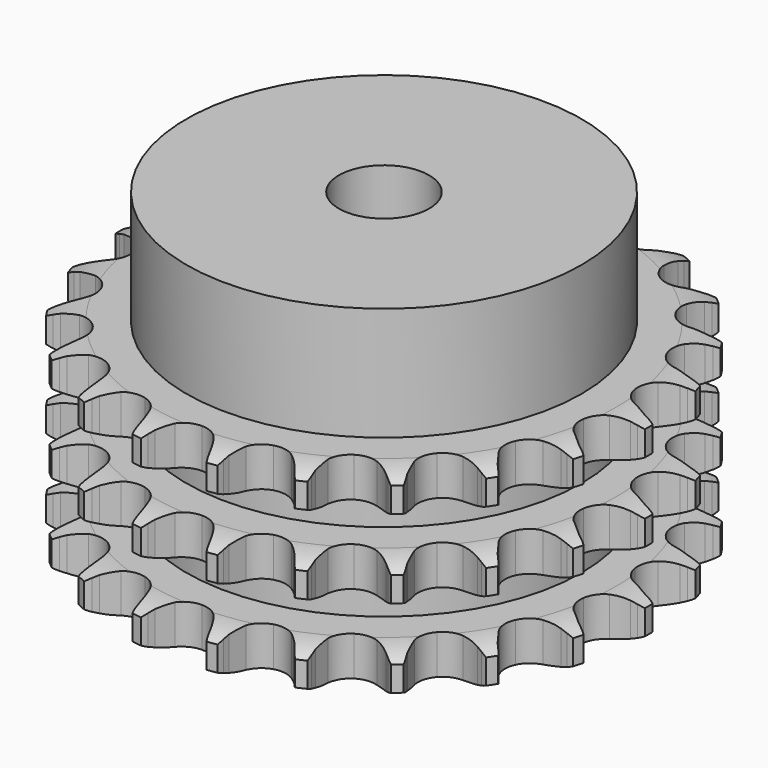
from build123d import *

# Parameters (mm, degrees)
PAD_DEPTH         = 34.9
SKETCH001_R       = 35
PAD001_DEPTH      = 55
SKETCH002_R       = 8
POCKET_DEPTH      = 0.001
POCKET_DEPTH_BACK = 55.001


with BuildPart() as part:
    # Sprocket → Pad (new body)
    with BuildSketch(Plane.XY):
        with BuildLine():
            ThreePointArc((-6.888681, 47.911827), (-5.985415, 46.823172), (-5.319648, 45.575049))
            Line((-5.319648, 45.575049), (-4.90787, 44.569666))
            ThreePointArc((-4.90787, 44.569666), (-4.247592, 43.224033), (-3.412379, 41.9794))
            ThreePointArc((-3.412379, 41.9794), (-1.900521, 40.746159), (0, 40.305006))
            ThreePointArc((0, 40.305006), (1.900521, 40.746159), (3.412379, 41.9794))
            ThreePointArc((3.412379, 41.9794), (4.247592, 43.224033), (4.90787, 44.569666))
            Line((4.90787, 44.569666), (5.319648, 45.575049))
            ThreePointArc((5.319648, 45.575049), (5.985415, 46.823172), (6.888681, 47.911827))
            ThreePointArc((6.888681, 47.911827), (7.448649, 46.612791), (7.73581, 45.227657))
            Line((7.73581, 45.227657), (7.847659, 44.146988))
            ThreePointArc((7.847659, 44.146988), (8.102083, 42.669841), (8.55281, 41.240317))
            ThreePointArc((8.55281, 41.240317), (9.655983, 39.631092), (11.355232, 38.67237))
            ThreePointArc((11.355232, 38.67237), (13.303056, 38.560214), (15.101117, 39.317561))
            Line((15.101117, 39.317561), (17.265792, 41.381574))
            ThreePointArc((17.265792, 41.381574), (17.594598, 41.814185), (17.94414, 42.230221))
            ThreePointArc((17.94414, 42.230221), (18.934576, 43.240219), (20.107962, 44.030296))
            ThreePointArc((20.107962, 44.030296), (20.279267, 42.626119), (20.164559, 41.21619))
            Line((20.164559, 41.21619), (19.967418, 40.147783))
            ThreePointArc((19.967418, 40.147783), (19.795375, 38.658792), (19.825101, 37.160189))
            ThreePointArc((19.825101, 37.160189), (20.430216, 35.305349), (21.790531, 33.906729))
            ThreePointArc((21.790531, 33.906729), (23.627857, 33.250351), (25.566453, 33.470447))
            Line((25.566453, 33.470447), (28.224943, 34.840994))
            ThreePointArc((28.224943, 34.840994), (28.662311, 35.163446), (29.114905, 35.464152))
            ThreePointArc((29.114905, 35.464152), (30.34977, 36.1542), (31.698216, 36.581692))
            ThreePointArc((31.698216, 36.581692), (31.466979, 35.186132), (30.959695, 33.865632))
            Line((30.959695, 33.865632), (30.469535, 32.896044))
            ThreePointArc((30.469535, 32.896044), (29.884964, 31.515838), (29.49128, 30.069564))
            ThreePointArc((29.49128, 30.069564), (29.549315, 28.119377), (30.460491, 26.394166))
            ThreePointArc((30.460491, 26.394166), (32.038469, 25.246741), (33.960546, 24.911757))
            Line((33.960546, 24.911757), (36.897477, 25.477804))
            ThreePointArc((36.897477, 25.477804), (37.407973, 25.663973), (37.926952, 25.824988))
            ThreePointArc((37.926952, 25.824988), (39.306206, 26.139182), (40.720469, 26.169457))
            ThreePointArc((40.720469, 26.169457), (40.105425, 24.895574), (39.246661, 23.771482))
            Line((39.246661, 23.771482), (38.503191, 22.979264))
            ThreePointArc((38.503191, 22.979264), (37.55345, 21.819658), (36.768252, 20.542882))
            ThreePointArc((36.768252, 20.542882), (36.274505, 18.655341), (36.662723, 16.743305))
            ThreePointArc((36.662723, 16.743305), (37.853515, 15.197791), (39.603358, 14.334864))
            Line((39.603358, 14.334864), (42.580797, 14.050553))
            ThreePointArc((42.580797, 14.050553), (43.123064, 14.085358), (43.666384, 14.093637))
            ThreePointArc((43.666384, 14.093637), (45.078287, 14.006524), (46.443792, 13.637128))
            ThreePointArc((46.443792, 13.637128), (45.494767, 12.588124), (44.354096, 11.751508))
            Line((44.354096, 11.751508), (43.417548, 11.200839))
            ThreePointArc((43.417548, 11.200839), (42.17958, 10.355779), (41.066478, 9.351937))
            ThreePointArc((41.066478, 9.351937), (40.060949, 7.67996), (39.894759, 5.736))
            ThreePointArc((39.894759, 5.736), (40.601894, 3.917606), (42.037742, 2.596646))
            Line((42.037742, 2.596646), (44.814474, 1.48501))
            ThreePointArc((44.814474, 1.48501), (45.344581, 1.365631), (45.868225, 1.220504))
            ThreePointArc((45.868225, 1.220504), (47.198393, 0.73914), (48.404515, 0))
            ThreePointArc((48.404515, 0), (47.198393, -0.73914), (45.868225, -1.220504))
            Line((45.868225, -1.220504), (44.814474, -1.48501))
            ThreePointArc((44.814474, -1.48501), (43.38857, -1.947064), (42.037742, -2.596646))
            ThreePointArc((42.037742, -2.596646), (40.601894, -3.917606), (39.894759, -5.736))
            ThreePointArc((39.894759, -5.736), (40.060949, -7.67996), (41.066478, -9.351937))
            Line((41.066478, -9.351937), (43.417548, -11.200839))
            ThreePointArc((43.417548, -11.200839), (43.89255, -11.464731), (44.354096, -11.751508))
            ThreePointArc((44.354096, -11.751508), (45.494767, -12.588124), (46.443792, -13.637128))
            ThreePointArc((46.443792, -13.637128), (45.078287, -14.006524), (43.666384, -14.093637))
            Line((43.666384, -14.093637), (42.580797, -14.050553))
            ThreePointArc((42.580797, -14.050553), (41.082477, -14.092167), (39.603358, -14.334864))
            ThreePointArc((39.603358, -14.334864), (37.853515, -15.197791), (36.662723, -16.743305))
            ThreePointArc((36.662723, -16.743305), (36.274505, -18.655341), (36.768252, -20.542882))
            Line((36.768252, -20.542882), (38.503191, -22.979264))
            ThreePointArc((38.503191, -22.979264), (38.884605, -23.366289), (39.246661, -23.771482))
            ThreePointArc((39.246661, -23.771482), (40.105425, -24.895574), (40.720469, -26.169457))
            ThreePointArc((40.720469, -26.169457), (39.306206, -26.139182), (37.926952, -25.824988))
            Line((37.926952, -25.824988), (36.897477, -25.477804))
            ThreePointArc((36.897477, -25.477804), (35.448126, -25.095606), (33.960546, -24.911757))
            ThreePointArc((33.960546, -24.911757), (32.038469, -25.246741), (30.460491, -26.394166))
            ThreePointArc((30.460491, -26.394166), (29.549315, -28.119377), (29.49128, -30.069564))
            Line((29.49128, -30.069564), (30.469535, -32.896044))
            ThreePointArc((30.469535, -32.896044), (30.726461, -33.37485), (30.959695, -33.865632))
            ThreePointArc((30.959695, -33.865632), (31.466979, -35.186132), (31.698216, -36.581692))
            ThreePointArc((31.698216, -36.581692), (30.34977, -36.1542), (29.114905, -35.464152))
            Line((29.114905, -35.464152), (28.224943, -34.840994))
            ThreePointArc((28.224943, -34.840994), (26.941978, -34.065949), (25.566453, -33.470447))
            ThreePointArc((25.566453, -33.470447), (23.627857, -33.250351), (21.790531, -33.906729))
            ThreePointArc((21.790531, -33.906729), (20.430216, -35.305349), (19.825101, -37.160189))
            Line((19.825101, -37.160189), (19.967418, -40.147783))
            ThreePointArc((19.967418, -40.147783), (20.079041, -40.679578), (20.164559, -41.21619))
            ThreePointArc((20.164559, -41.21619), (20.279267, -42.626119), (20.107962, -44.030296))
            ThreePointArc((20.107962, -44.030296), (18.934576, -43.240219), (17.94414, -42.230221))
            Line((17.94414, -42.230221), (17.265792, -41.381574))
            ThreePointArc((17.265792, -41.381574), (16.253152, -40.276471), (15.101117, -39.317561))
            ThreePointArc((15.101117, -39.317561), (13.303056, -38.560214), (11.355232, -38.67237))
            ThreePointArc((11.355232, -38.67237), (9.655983, -39.631092), (8.55281, -41.240317))
            Line((8.55281, -41.240317), (7.847659, -44.146988))
            ThreePointArc((7.847659, -44.146988), (7.804938, -44.688689), (7.73581, -45.227657))
            ThreePointArc((7.73581, -45.227657), (7.448649, -46.612791), (6.888681, -47.911827))
            ThreePointArc((6.888681, -47.911827), (5.985415, -46.823172), (5.319648, -45.575049))
            Line((5.319648, -45.575049), (4.90787, -44.569666))
            ThreePointArc((4.90787, -44.569666), (4.247592, -43.224033), (3.412379, -41.9794))
            ThreePointArc((3.412379, -41.9794), (1.900521, -40.746159), (0, -40.305006))
            ThreePointArc((0, -40.305006), (-1.900521, -40.746159), (-3.412379, -41.9794))
            Line((-3.412379, -41.9794), (-4.90787, -44.569666))
            ThreePointArc((-4.90787, -44.569666), (-5.101476, -45.077388), (-5.319648, -45.575049))
            ThreePointArc((-5.319648, -45.575049), (-5.985415, -46.823172), (-6.888681, -47.911827))
            ThreePointArc((-6.888681, -47.911827), (-7.448649, -46.612791), (-7.73581, -45.227657))
            Line((-7.73581, -45.227657), (-7.847659, -44.146988))
            ThreePointArc((-7.847659, -44.146988), (-8.102083, -42.669841), (-8.55281, -41.240317))
            ThreePointArc((-8.55281, -41.240317), (-9.655983, -39.631092), (-11.355232, -38.67237))
            ThreePointArc((-11.355232, -38.67237), (-13.303056, -38.560214), (-15.101117, -39.317561))
            Line((-15.101117, -39.317561), (-17.265792, -41.381574))
            ThreePointArc((-17.265792, -41.381574), (-17.594598, -41.814185), (-17.94414, -42.230221))
            ThreePointArc((-17.94414, -42.230221), (-18.934576, -43.240219), (-20.107962, -44.030296))
            ThreePointArc((-20.107962, -44.030296), (-20.279267, -42.626119), (-20.164559, -41.21619))
            Line((-20.164559, -41.21619), (-19.967418, -40.147783))
            ThreePointArc((-19.967418, -40.147783), (-19.795375, -38.658792), (-19.825101, -37.160189))
            ThreePointArc((-19.825101, -37.160189), (-20.430216, -35.305349), (-21.790531, -33.906729))
            ThreePointArc((-21.790531, -33.906729), (-23.627857, -33.250351), (-25.566453, -33.470447))
            Line((-25.566453, -33.470447), (-28.224943, -34.840994))
            ThreePointArc((-28.224943, -34.840994), (-28.662311, -35.163446), (-29.114905, -35.464152))
            ThreePointArc((-29.114905, -35.464152), (-30.34977, -36.1542), (-31.698216, -36.581692))
            ThreePointArc((-31.698216, -36.581692), (-31.466979, -35.186132), (-30.959695, -33.865632))
            Line((-30.959695, -33.865632), (-30.469535, -32.896044))
            ThreePointArc((-30.469535, -32.896044), (-29.884964, -31.515838), (-29.49128, -30.069564))
            ThreePointArc((-29.49128, -30.069564), (-29.549315, -28.119377), (-30.460491, -26.394166))
            ThreePointArc((-30.460491, -26.394166), (-32.038469, -25.246741), (-33.960546, -24.911757))
            Line((-33.960546, -24.911757), (-36.897477, -25.477804))
            ThreePointArc((-36.897477, -25.477804), (-37.407973, -25.663973), (-37.926952, -25.824988))
            ThreePointArc((-37.926952, -25.824988), (-39.306206, -26.139182), (-40.720469, -26.169457))
            ThreePointArc((-40.720469, -26.169457), (-40.105425, -24.895574), (-39.246661, -23.771482))
            Line((-39.246661, -23.771482), (-38.503191, -22.979264))
            ThreePointArc((-38.503191, -22.979264), (-37.55345, -21.819658), (-36.768252, -20.542882))
            ThreePointArc((-36.768252, -20.542882), (-36.274505, -18.655341), (-36.662723, -16.743305))
            ThreePointArc((-36.662723, -16.743305), (-37.853515, -15.197791), (-39.603358, -14.334864))
            Line((-39.603358, -14.334864), (-42.580797, -14.050553))
            ThreePointArc((-42.580797, -14.050553), (-43.123064, -14.085358), (-43.666384, -14.093637))
            ThreePointArc((-43.666384, -14.093637), (-45.078287, -14.006524), (-46.443792, -13.637128))
            ThreePointArc((-46.443792, -13.637128), (-45.494767, -12.588124), (-44.354096, -11.751508))
            Line((-44.354096, -11.751508), (-43.417548, -11.200839))
            ThreePointArc((-43.417548, -11.200839), (-42.17958, -10.355779), (-41.066478, -9.351937))
            ThreePointArc((-41.066478, -9.351937), (-40.060949, -7.67996), (-39.894759, -5.736))
            ThreePointArc((-39.894759, -5.736), (-40.601894, -3.917606), (-42.037742, -2.596646))
            Line((-42.037742, -2.596646), (-44.814474, -1.48501))
            ThreePointArc((-44.814474, -1.48501), (-45.344581, -1.365631), (-45.868225, -1.220504))
            ThreePointArc((-45.868225, -1.220504), (-47.198393, -0.73914), (-48.404515, 0))
            ThreePointArc((-48.404515, 0), (-47.198393, 0.73914), (-45.868225, 1.220504))
            Line((-45.868225, 1.220504), (-44.814474, 1.48501))
            ThreePointArc((-44.814474, 1.48501), (-43.38857, 1.947064), (-42.037742, 2.596646))
            ThreePointArc((-42.037742, 2.596646), (-40.601894, 3.917606), (-39.894759, 5.736))
            ThreePointArc((-39.894759, 5.736), (-40.060949, 7.67996), (-41.066478, 9.351937))
            Line((-41.066478, 9.351937), (-43.417548, 11.200839))
            ThreePointArc((-43.417548, 11.200839), (-43.89255, 11.464731), (-44.354096, 11.751508))
            ThreePointArc((-44.354096, 11.751508), (-45.494767, 12.588124), (-46.443792, 13.637128))
            ThreePointArc((-46.443792, 13.637128), (-45.078287, 14.006524), (-43.666384, 14.093637))
            Line((-43.666384, 14.093637), (-42.580797, 14.050553))
            ThreePointArc((-42.580797, 14.050553), (-41.082477, 14.092167), (-39.603358, 14.334864))
            ThreePointArc((-39.603358, 14.334864), (-37.853515, 15.197791), (-36.662723, 16.743305))
            ThreePointArc((-36.662723, 16.743305), (-36.274505, 18.655341), (-36.768252, 20.542882))
            Line((-36.768252, 20.542882), (-38.503191, 22.979264))
            ThreePointArc((-38.503191, 22.979264), (-38.884605, 23.366289), (-39.246661, 23.771482))
            ThreePointArc((-39.246661, 23.771482), (-40.105425, 24.895574), (-40.720469, 26.169457))
            ThreePointArc((-40.720469, 26.169457), (-39.306206, 26.139182), (-37.926952, 25.824988))
            Line((-37.926952, 25.824988), (-36.897477, 25.477804))
            ThreePointArc((-36.897477, 25.477804), (-35.448126, 25.095606), (-33.960546, 24.911757))
            ThreePointArc((-33.960546, 24.911757), (-32.038469, 25.246741), (-30.460491, 26.394166))
            ThreePointArc((-30.460491, 26.394166), (-29.549315, 28.119377), (-29.49128, 30.069564))
            Line((-29.49128, 30.069564), (-30.469535, 32.896044))
            ThreePointArc((-30.469535, 32.896044), (-30.726461, 33.37485), (-30.959695, 33.865632))
            ThreePointArc((-30.959695, 33.865632), (-31.466979, 35.186132), (-31.698216, 36.581692))
            ThreePointArc((-31.698216, 36.581692), (-30.34977, 36.1542), (-29.114905, 35.464152))
            Line((-29.114905, 35.464152), (-28.224943, 34.840994))
            ThreePointArc((-28.224943, 34.840994), (-26.941978, 34.065949), (-25.566453, 33.470447))
            ThreePointArc((-25.566453, 33.470447), (-23.627857, 33.250351), (-21.790531, 33.906729))
            ThreePointArc((-21.790531, 33.906729), (-20.430216, 35.305349), (-19.825101, 37.160189))
            Line((-19.825101, 37.160189), (-19.967418, 40.147783))
            ThreePointArc((-19.967418, 40.147783), (-20.079041, 40.679578), (-20.164559, 41.21619))
            ThreePointArc((-20.164559, 41.21619), (-20.279267, 42.626119), (-20.107962, 44.030296))
            ThreePointArc((-20.107962, 44.030296), (-18.934576, 43.240219), (-17.94414, 42.230221))
            Line((-17.94414, 42.230221), (-17.265792, 41.381574))
            ThreePointArc((-17.265792, 41.381574), (-16.253152, 40.276471), (-15.101117, 39.317561))
            ThreePointArc((-15.101117, 39.317561), (-13.303056, 38.560214), (-11.355232, 38.67237))
            ThreePointArc((-11.355232, 38.67237), (-9.655983, 39.631092), (-8.55281, 41.240317))
            Line((-8.55281, 41.240317), (-7.847659, 44.146988))
            ThreePointArc((-7.847659, 44.146988), (-7.804938, 44.688689), (-7.73581, 45.227657))
            ThreePointArc((-7.73581, 45.227657), (-7.448649, 46.612791), (-6.888681, 47.911827))
        make_face()
    extrude(amount=PAD_DEPTH)

    # Sketch → Groove (revolve, cut)
    with BuildSketch(Plane.XZ):
        with BuildLine():
            ThreePointArc((41.233431, 0), (44.14032, 0.329167), (46.9, 1.3))
            Line((46.9, 1.3), (46.9, 5.7))
            ThreePointArc((46.9, 5.7), (44.14032, 6.670833), (41.233431, 7))
            Line((35, 7), (41.233431, 7))
            Line((35, 7), (35, 13.95))
            Line((35, 13.95), (41.233431, 13.95))
            ThreePointArc((41.233431, 13.95), (44.14032, 14.279167), (46.9, 15.25))
            Line((46.9, 19.65), (46.9, 15.25))
            ThreePointArc((46.9, 19.65), (44.14032, 20.620833), (41.233431, 20.95))
            Line((35, 20.95), (41.233431, 20.95))
            Line((35, 27.9), (35, 20.95))
            Line((41.233431, 27.9), (35, 27.9))
            ThreePointArc((41.233431, 27.9), (44.14032, 28.229167), (46.9, 29.2))
            Line((46.9, 29.2), (46.9, 33.6))
            ThreePointArc((46.9, 33.6), (44.14032, 34.570833), (41.233431, 34.9))
            Line((41.233431, 34.9), (56.9, 34.9))
            Line((56.9, 34.9), (56.9, 0))
            Line((41.233431, 0), (56.9, 0))
        make_face()
    revolve(axis=Axis((0, 0, 0), (0, 0, 1)), mode=Mode.SUBTRACT)

    # Sketch001 → Pad001 (join)
    with BuildSketch(Plane.XY):
        Circle(SKETCH001_R)
    extrude(amount=PAD001_DEPTH)

    # Sketch002 → Pocket (cut, two sides)
    with BuildSketch(Plane.XY) as pocket_sk:
        Circle(SKETCH002_R)
    extrude(amount=-POCKET_DEPTH, mode=Mode.SUBTRACT)
    extrude(pocket_sk.sketch, amount=POCKET_DEPTH_BACK, mode=Mode.SUBTRACT)


solid = part.part
